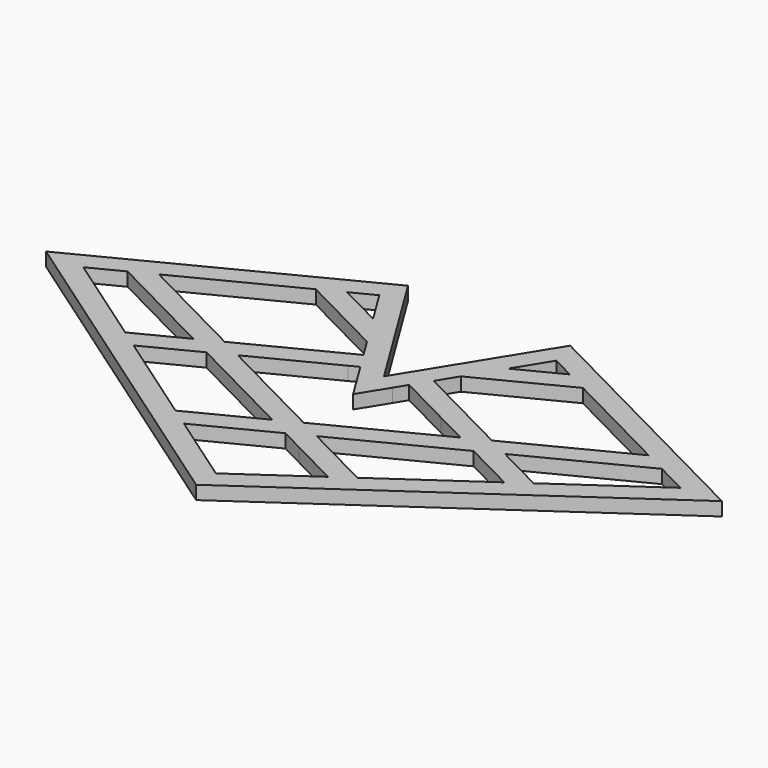
from build123d import *

# Parameters (mm, degrees)
F1_DEPTH = 0.2


with BuildPart() as f1:
    # F0 (on Top) → F1 (new body)
    with BuildSketch(Plane.XY):
        Polygon((1.2, 1.9436635362), (0, 0), (-1.2, 1.9436635362), (-5, 0), (0, -3.474459209), (5, 0), align=None)
        Polygon((-1.3453450499, -2.1742698847), (-2.7419417877, -1.2037862053), (-1.9763766773, -0.8122069975), (-0.3293961129, -1.6546217522), align=None, mode=Mode.SUBTRACT)
        Polygon((0, -3.1091391843), (-1.0660257024, -2.3683666206), (0, -1.8231047031), (0.3370130695, -1.9954836543), (1.0660257024, -2.3683666206), align=None, mode=Mode.SUBTRACT)
        Polygon((1.9763766773, -0.8122069975), (2.7419417877, -1.2037862053), (1.3453450499, -2.1742698847), (0.4736267035, -1.7283943153), (0.3293961129, -1.6546217522), (0.3295207339, -1.6545580097), align=None, mode=Mode.SUBTRACT)
        Polygon((-3.0212611353, -1.0096894694), (-4.4178578731, -0.03920579), (-3.9527533546, 0.1986907082), (-2.3057727902, -0.6437240465), align=None, mode=Mode.SUBTRACT)
        Polygon((-0.519292203, 0.2700436312), (-0.626774704, 0.2150673633), (-1.9763766773, -0.4752410956), (-3.6233572417, 0.3671736591), (-1.9763766773, 1.2095884138), (-0.6945809015, 0.5539621743), align=None, mode=Mode.SUBTRACT)
        Polygon((-1.6469805644, 1.3780713647), (-1.3098428739, 1.5505140583), (-0.9986388519, 1.0464508001), align=None, mode=Mode.SUBTRACT)
        Polygon((-0.3611820688, 0.0139495458), (-0.2552686402, -0.1576005119), (0, -0.5710641351), (0.2552686402, -0.1576005119), (0.3611820688, 0.0139495458), (1.1566948734, -0.3929476202), (1.6469805644, -0.6437240465), (0.1929070999, -1.3874686707), (0, -1.4861388012), (-1.6469805644, -0.6437240465), (-0.49016107, -0.0520219757), align=None, mode=Mode.SUBTRACT)
        Polygon((0.519292203, 0.2700436312), (0.6945809015, 0.5539621743), (1.9763766773, 1.2095884138), (3.6233572417, 0.3671736591), (1.9763766773, -0.4752410956), (1.2933085074, -0.1258582812), align=None, mode=Mode.SUBTRACT)
        Polygon((3.9527533546, 0.1986907082), (4.4178578731, -0.03920579), (3.0212611353, -1.0096894694), (2.9402890718, -0.9682730359), (2.3057727902, -0.6437240465), align=None, mode=Mode.SUBTRACT)
        Polygon((0.9986388519, 1.0464508001), (1.3098428739, 1.5505140583), (1.6469805644, 1.3780713647), align=None, mode=Mode.SUBTRACT)
        Polygon((1.2, 1.9436635362), (0, 0), (-1.2, 1.9436635362), (-5, 0), (0, -3.474459209), (5, 0), align=None)
        Polygon((-1.3453450499, -2.1742698847), (-2.7419417877, -1.2037862053), (-1.9763766773, -0.8122069975), (-0.3293961129, -1.6546217522), align=None, mode=Mode.SUBTRACT)
        Polygon((0, -3.1091391843), (-1.0660257024, -2.3683666206), (0, -1.8231047031), (0.3370130695, -1.9954836543), (1.0660257024, -2.3683666206), align=None, mode=Mode.SUBTRACT)
        Polygon((1.9763766773, -0.8122069975), (2.7419417877, -1.2037862053), (1.3453450499, -2.1742698847), (0.4736267035, -1.7283943153), (0.3293961129, -1.6546217522), (0.3295207339, -1.6545580097), align=None, mode=Mode.SUBTRACT)
        Polygon((-3.0212611353, -1.0096894694), (-4.4178578731, -0.03920579), (-3.9527533546, 0.1986907082), (-2.3057727902, -0.6437240465), align=None, mode=Mode.SUBTRACT)
        Polygon((-0.519292203, 0.2700436312), (-0.626774704, 0.2150673633), (-1.9763766773, -0.4752410956), (-3.6233572417, 0.3671736591), (-1.9763766773, 1.2095884138), (-0.6945809015, 0.5539621743), align=None, mode=Mode.SUBTRACT)
        Polygon((-1.6469805644, 1.3780713647), (-1.3098428739, 1.5505140583), (-0.9986388519, 1.0464508001), align=None, mode=Mode.SUBTRACT)
        Polygon((-0.3611820688, 0.0139495458), (-0.2552686402, -0.1576005119), (0, -0.5710641351), (0.2552686402, -0.1576005119), (0.3611820688, 0.0139495458), (1.1566948734, -0.3929476202), (1.6469805644, -0.6437240465), (0.1929070999, -1.3874686707), (0, -1.4861388012), (-1.6469805644, -0.6437240465), (-0.49016107, -0.0520219757), align=None, mode=Mode.SUBTRACT)
        Polygon((0.519292203, 0.2700436312), (0.6945809015, 0.5539621743), (1.9763766773, 1.2095884138), (3.6233572417, 0.3671736591), (1.9763766773, -0.4752410956), (1.2933085074, -0.1258582812), align=None, mode=Mode.SUBTRACT)
        Polygon((3.9527533546, 0.1986907082), (4.4178578731, -0.03920579), (3.0212611353, -1.0096894694), (2.9402890718, -0.9682730359), (2.3057727902, -0.6437240465), align=None, mode=Mode.SUBTRACT)
        Polygon((0.9986388519, 1.0464508001), (1.3098428739, 1.5505140583), (1.6469805644, 1.3780713647), align=None, mode=Mode.SUBTRACT)
    extrude(amount=F1_DEPTH)


solid = f1.part
